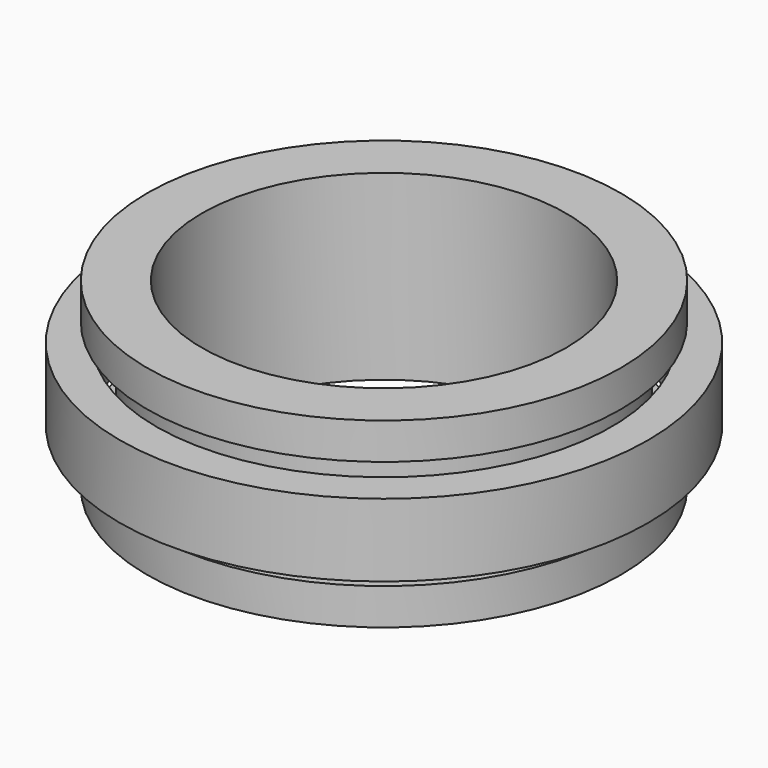
from build123d import *

# Parameters (mm, degrees)
F0_W   = 1.5
F0_H   = 6
F0_W_2 = 2
F0_H_2 = 4


with BuildPart() as f1:
    # F0 (on Front) → F1 (revolve)
    with BuildSketch(Plane.XZ):
        Polygon((-11.5, 6), (-10, 6), (-10, 8), (-13, 8), (-13, 6), align=None)
        with Locations((-10.75, 3)):
            Rectangle(F0_W, F0_H)
        Polygon((-10, -2), (-10, 0), (-11.5, 0), (-13, 0), (-13, -2), align=None)
        with Locations((-13.5, 3)):
            Rectangle(F0_W_2, F0_H_2)
    revolve(axis=Axis((0, 0, 3.658223), (0, 0, 1)))


solid = f1.part
